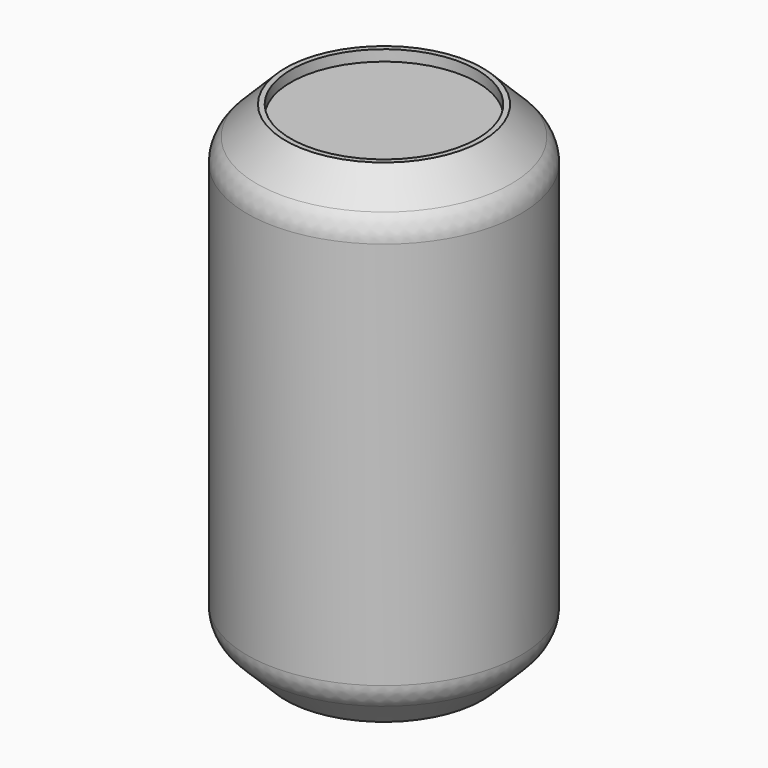
from build123d import *

# Parameters (mm, degrees)
F0_R     = 31.75
F1_DEPTH = 114.3
F2_SIZE  = 8.89
F3_SIZE  = 8.89
F4_R     = 7.62
F6_R     = 21.6402594839
F7_DEPTH = 2.54


with BuildPart() as f1:
    # F0 (on Top) → F1 (new body)
    with BuildSketch(Plane.XY):
        Circle(F0_R)
    extrude(amount=F1_DEPTH)

    # F2
    f2_edges = [f1.edges().sort_by_distance(p)[0] for p in [
        (-31.75, 0, 114.3),
    ]]
    chamfer(f2_edges, length=F2_SIZE)

    # F3
    f3_edges = [f1.edges().sort_by_distance(p)[0] for p in [
        (-31.75, 0, 0),
    ]]
    chamfer(f3_edges, length=F3_SIZE)

    # F4
    f4_edges = [f1.edges().sort_by_distance(p)[0] for p in [
        (-31.75, 0, 8.89),
        (-31.75, 0, 105.41),
    ]]
    fillet(f4_edges, radius=F4_R)

    # F6 (on face) → F7 (cut)
    with BuildSketch(Plane.XY.offset(114.3)):
        Circle(F6_R)
    extrude(amount=-F7_DEPTH, mode=Mode.SUBTRACT)


solid = f1.part
